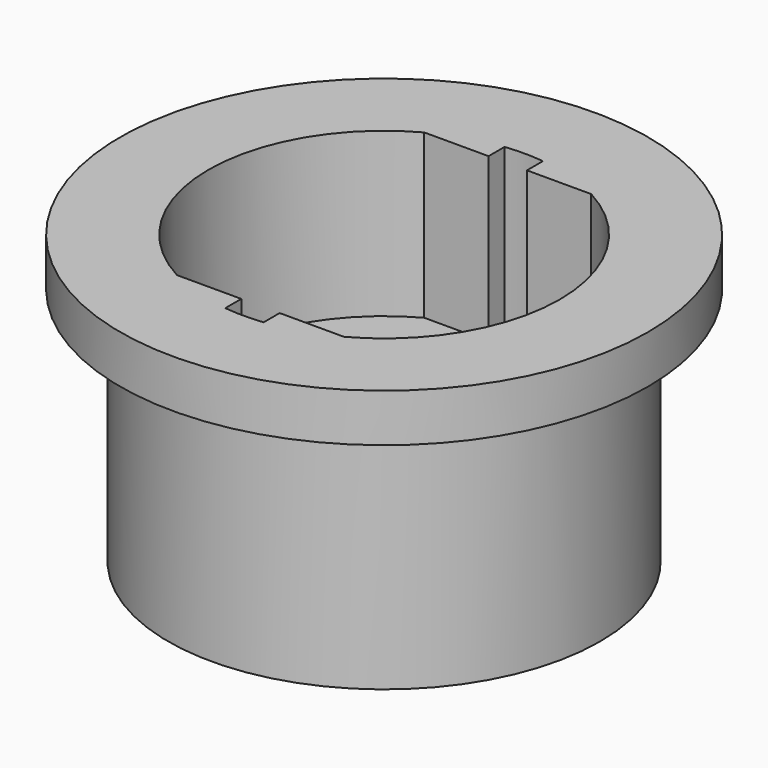
from build123d import *

# Parameters (mm, degrees)
F3_DEPTH = 17
F4_D     = 4.86


with BuildPart() as f1:
    # F0 (on Front) → F1 (revolve)
    with BuildSketch(Plane.XZ):
        Polygon((0, 30), (0, 0), (22.5, 0), (22.5, 25), (27.5, 25), (27.5, 30), align=None)
    revolve(axis=Axis((0, 0, 15), (0, 0, 1)))

    # F2 (on face) → F3 (cut)
    with BuildSketch(Plane.XY.offset(30)):
        with BuildLine():
            Line((2, -16.1), (0, -16.1))
            Line((0, -16.1), (-2, -16.1))
            Line((-2, -16.1), (-2, -18.190382))
            ThreePointArc((-2, -18.190382), (0, -18.3), (2, -18.190382))
            Line((2, -18.190382), (2, -16.1))
        make_face()
        with BuildLine():
            Line((0, -9.5), (0, 0))
            Line((0, 0), (0, 9.5))
            Line((0, 9.5), (0, 16.1))
            Line((0, 16.1), (-2, 16.1))
            Line((-2, 16.1), (-8.699425, 16.1))
            ThreePointArc((-8.699425, 16.1), (-18.3, 0), (-8.699425, -16.1))
            Line((-8.699425, -16.1), (-2, -16.1))
            Line((-2, -16.1), (0, -16.1))
            Line((0, -16.1), (0, -9.5))
        make_face()
        with BuildLine():
            Line((-2, 16.1), (0, 16.1))
            Line((0, 16.1), (2, 16.1))
            Line((2, 16.1), (2, 18.190382))
            ThreePointArc((2, 18.190382), (0, 18.3), (-2, 18.190382))
            Line((-2, 18.190382), (-2, 16.1))
        make_face()
        with BuildLine():
            Line((0, 9.5), (0, 0))
            Line((0, 0), (10, 0))
            Line((10, 0), (18.3, 0))
            ThreePointArc((18.3, 0), (15.717657, 9.37258), (8.699425, 16.1))
            Line((8.699425, 16.1), (2, 16.1))
            Line((2, 16.1), (0, 16.1))
            Line((0, 16.1), (0, 9.5))
        make_face()
        with BuildLine():
            Line((10, 0), (0, 0))
            Line((0, 0), (0, -9.5))
            Line((0, -9.5), (0, -16.1))
            Line((0, -16.1), (2, -16.1))
            Line((2, -16.1), (8.699425, -16.1))
            ThreePointArc((8.699425, -16.1), (15.717657, -9.37258), (18.3, 0))
            Line((18.3, 0), (10, 0))
        make_face()
    extrude(amount=-F3_DEPTH, mode=Mode.SUBTRACT)

    # F4 (through all)
    with Locations(Plane.XY.offset(30)):
        with Locations((0, 9.5), (0, -9.5)):
            Hole(F4_D / 2)


solid = f1.part
